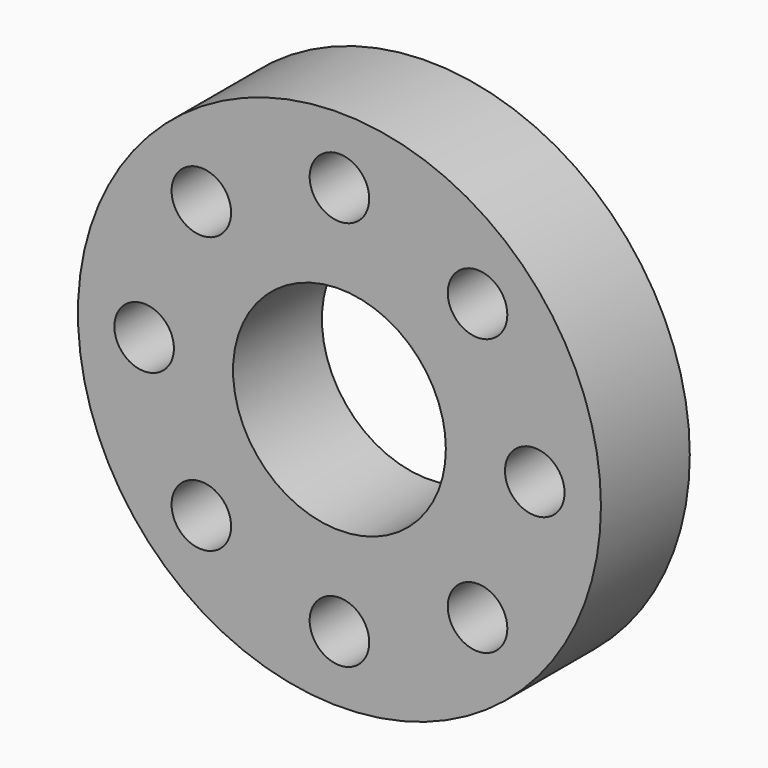
from build123d import *

# Parameters (mm, degrees)
F0_R     = 59.80071
F0_R_2   = 6.809169
F0_R_3   = 24.331807
F1_DEPTH = 12.7


with BuildPart() as f1:
    # F0 (on Front) → F1 (new body, symmetric)
    with BuildSketch(Plane.XZ):
        Circle(F0_R)
        with Locations((-31.582093, -31.582093)):
            Circle(F0_R_2, mode=Mode.SUBTRACT)
        with Locations((0, -44.663824)):
            Circle(F0_R_2, mode=Mode.SUBTRACT)
        with Locations((31.582093, -31.582093)):
            Circle(F0_R_2, mode=Mode.SUBTRACT)
        with Locations((-44.663824, 0)):
            Circle(F0_R_2, mode=Mode.SUBTRACT)
        with Locations((-31.582093, 31.582093)):
            Circle(F0_R_2, mode=Mode.SUBTRACT)
        Circle(F0_R_3, mode=Mode.SUBTRACT)
        with Locations((44.663824, 0)):
            Circle(F0_R_2, mode=Mode.SUBTRACT)
        with Locations((0, 44.663824)):
            Circle(F0_R_2, mode=Mode.SUBTRACT)
        with Locations((31.582093, 31.582093)):
            Circle(F0_R_2, mode=Mode.SUBTRACT)
    extrude(amount=F1_DEPTH, both=True)


solid = f1.part
